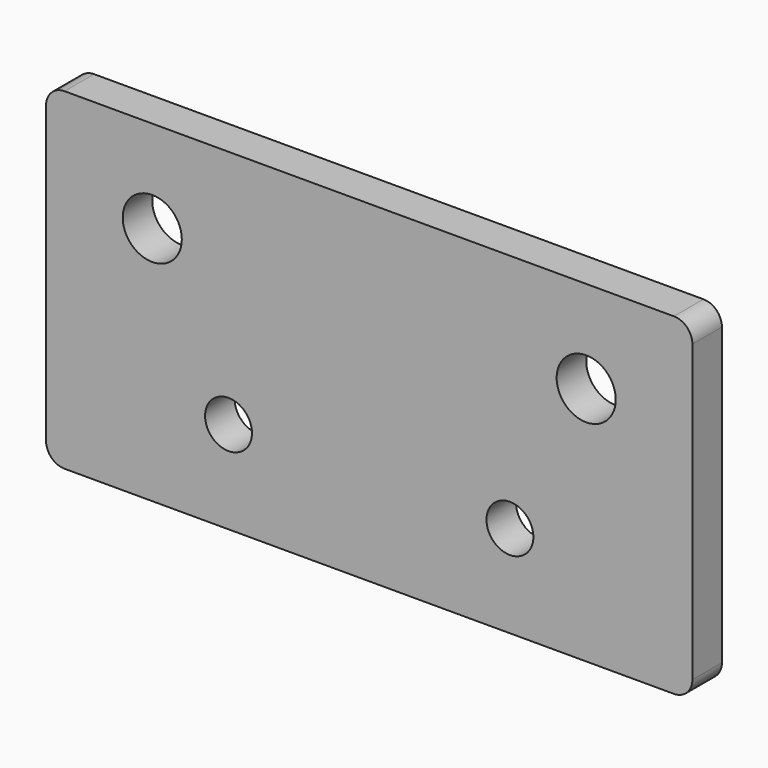
from build123d import *

# Parameters (mm, degrees)
F0_R     = 1.27
F0_R_2   = 1.6
F1_DEPTH = 2


with BuildPart() as f1:
    # F0 (on Front) → F1 (new body)
    with BuildSketch(Plane.XZ):
        with BuildLine():
            Line((4.75, 17.946066), (-28.25, 17.946066))
            ThreePointArc((-28.25, 17.946066), (-28.957107, 17.653172), (-29.25, 16.946066))
            Line((-29.25, 16.946066), (-29.25, 0.946066))
            ThreePointArc((-29.25, 0.946066), (-28.957107, 0.238959), (-28.25, -0.053934))
            Line((-28.25, -0.053934), (4.75, -0.053934))
            ThreePointArc((4.75, -0.053934), (5.457107, 0.238959), (5.75, 0.946066))
            Line((5.75, 0.946066), (5.75, 16.946066))
            ThreePointArc((5.75, 16.946066), (5.457107, 17.653172), (4.75, 17.946066))
        make_face()
        with Locations((-19.37, 4.946066)):
            Circle(F0_R, mode=Mode.SUBTRACT)
        with Locations((-4.13, 4.946066)):
            Circle(F0_R, mode=Mode.SUBTRACT)
        with Locations((-23.5, 12.946066)):
            Circle(F0_R_2, mode=Mode.SUBTRACT)
        with Locations((0, 12.946066)):
            Circle(F0_R_2, mode=Mode.SUBTRACT)
    extrude(amount=F1_DEPTH)


solid = f1.part
